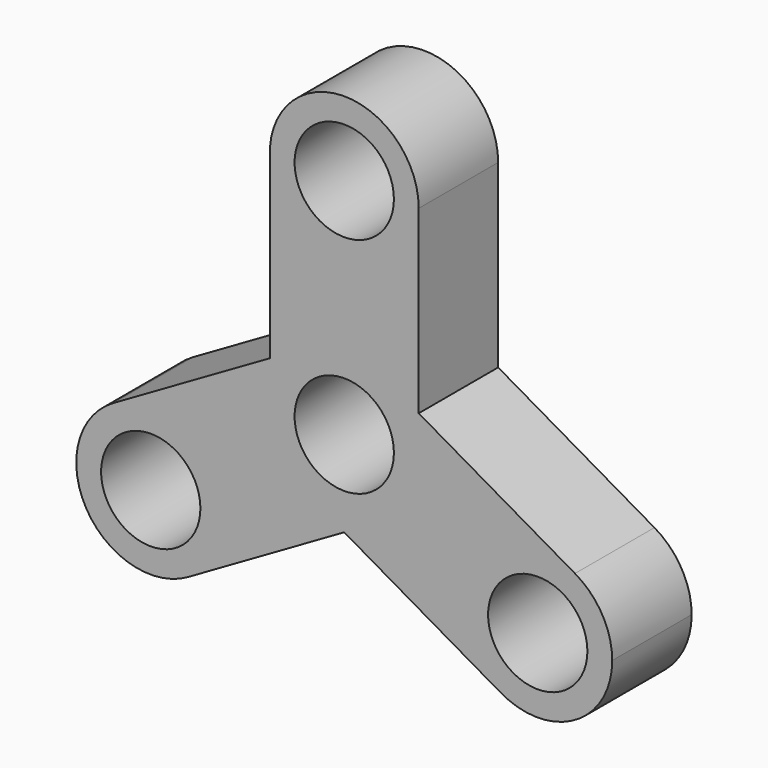
from build123d import *

# Parameters (mm, degrees)
F1_DEPTH = 12.7
F2_R     = 6.35
F3_DEPTH = 12.701


with BuildPart() as f1:
    # F0 (on Front) → F1 (new body)
    with BuildSketch(Plane.XZ):
        with BuildLine():
            ThreePointArc((-9.5140915631, 42.4067734045), (0.2279285655, 33.3402274997), (9.525, 42.8625))
            ThreePointArc((9.525, 42.8625), (-0.2279285655, 52.3847725003), (-9.5140915631, 42.4067734045))
        make_face()
        with BuildLine():
            Line((9.525, 19.786761314), (9.525, 42.8625))
            ThreePointArc((9.525, 42.8625), (0.2279285655, 33.3402274997), (-9.5140915631, 42.4067734045))
            Line((-9.5140915631, 42.4067734045), (-9.5140915631, 19.793059303))
            Line((-9.5140915631, 19.793059303), (-29.5091759131, 8.248891971))
            ThreePointArc((-29.5091759131, 8.248891971), (-19.9841759131, 8.248891971), (-15.2216759131, 0))
            ThreePointArc((-15.2216759131, 0), (-16.4977839421, -4.7625), (-19.9841759131, -8.248891971))
            Line((-19.9841759131, -8.248891971), (0, 3.2889773719))
            Line((0, 3.2889773719), (19.9841759131, -8.248891971))
            ThreePointArc((19.9841759131, -8.248891971), (16.4977839421, 4.7625), (29.5091759131, 8.248891971))
            Line((29.5091759131, 8.248891971), (9.525, 19.786761314))
        make_face()
        with BuildLine():
            ThreePointArc((-15.2216759131, 0), (-19.9841759131, 8.248891971), (-29.5091759131, 8.248891971))
            ThreePointArc((-29.5091759131, 8.248891971), (-32.9955678842, -4.7625), (-19.9841759131, -8.248891971))
            ThreePointArc((-19.9841759131, -8.248891971), (-16.4977839421, -4.7625), (-15.2216759131, 0))
        make_face()
        with BuildLine():
            ThreePointArc((34.2716759131, 0), (32.9955678842, 4.7625), (29.5091759131, 8.248891971))
            ThreePointArc((29.5091759131, 8.248891971), (16.4977839421, 4.7625), (19.9841759131, -8.248891971))
            ThreePointArc((19.9841759131, -8.248891971), (29.5091759131, -8.248891971), (34.2716759131, 0))
        make_face()
    extrude(amount=F1_DEPTH)

    # F2 (on face) → F3 (cut, through all)
    with BuildSketch(Plane.XZ.offset(12.7)):
        with Locations((-24.7466759131, 0)):
            Circle(F2_R)
        with Locations((0, 14.2875)):
            Circle(F2_R)
        with Locations((0, 42.8625)):
            Circle(F2_R)
        with Locations((24.7466759131, 0)):
            Circle(F2_R)
    extrude(amount=-F3_DEPTH, mode=Mode.SUBTRACT)


solid = f1.part
